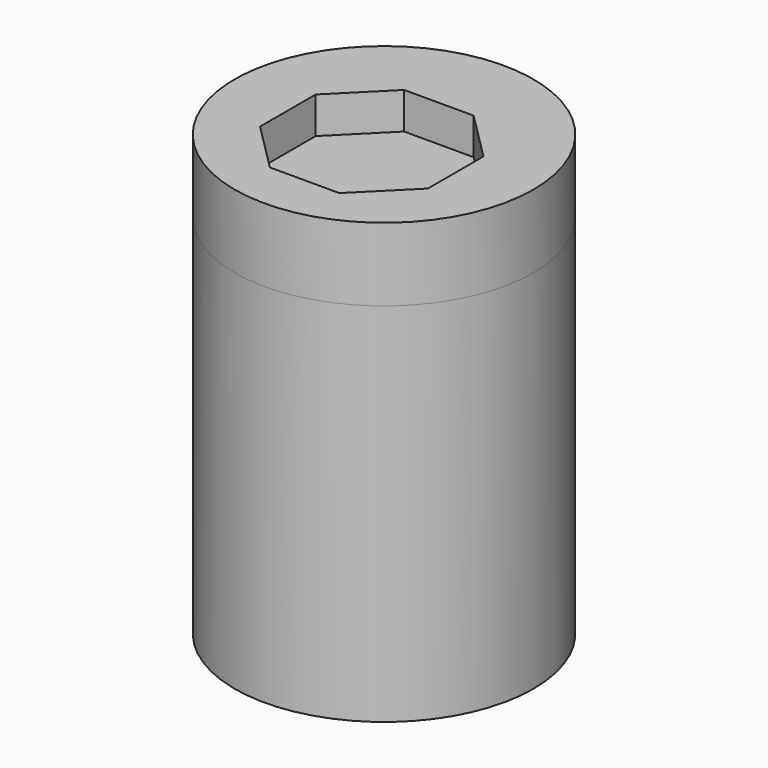
from build123d import *

# Parameters (mm, degrees)
F0_R     = 51.8043549738
F1_DEPTH = 76.2
F2_DEPTH = 25.4
F3_DEPTH = 25.4
F5_DEPTH = 12.7
F6_DEPTH = 127


with BuildPart() as f1:
    # F0 (on Top) → F1 (new body)
    with BuildSketch(Plane.XY):
        Circle(F0_R)
    extrude(amount=F1_DEPTH)

    # F2 (cut): a face of the model
    f2_faces = [f1.faces().sort_by_distance(p)[0] for p in [
        (0, 0, 76.2),
    ]]
    extrude(f2_faces, amount=-F2_DEPTH, mode=Mode.SUBTRACT)

    # F3 (cut): a face of the model
    f3_faces = [f1.faces().sort_by_distance(p)[0] for p in [
        (0, 0, 50.8),
    ]]
    extrude(f3_faces, amount=-F3_DEPTH, mode=Mode.SUBTRACT)

    # F4 (on face) → F5 (cut)
    with BuildSketch(Plane.XY.offset(25.4)):
        Polygon((29.0936566889, -17.3791157596), (29.0936566889, 6.7228585996), (12.0509871796, 23.7655281089), (-12.0509871796, 23.7655281089), (-29.0936566889, 6.7228585996), (-29.0936566889, -17.3791157596), (-12.0509871796, -34.4217852689), (12.0509871796, -34.4217852689), align=None)
    extrude(amount=-F5_DEPTH, mode=Mode.SUBTRACT)

    # F6 (add): a face of the model
    f6_faces = [f1.faces().sort_by_distance(p)[0] for p in [
        (0, 0, 0),
    ]]
    extrude(f6_faces, amount=F6_DEPTH)


solid = f1.part
